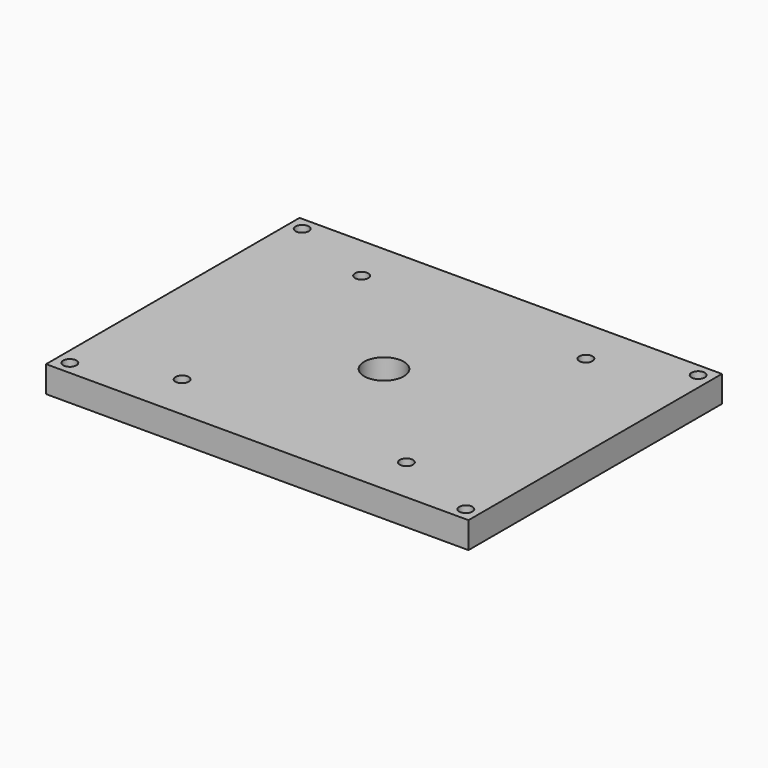
from build123d import *

# Parameters (mm, degrees)
F0_W     = 203.2
F0_H     = 152.4
F0_R     = 3.175
F0_R_2   = 9.525
F1_DEPTH = 12.7


with BuildPart() as f1:
    # F0 (on Top) → F1 (new body)
    with BuildSketch(Plane.XY):
        Rectangle(F0_W, F0_H)
        with Locations((-95.25, -69.85)):
            Circle(F0_R, mode=Mode.SUBTRACT)
        with Locations((-53.975, -53.939619)):
            Circle(F0_R, mode=Mode.SUBTRACT)
        with Locations((95.25, -69.85)):
            Circle(F0_R, mode=Mode.SUBTRACT)
        with Locations((53.975, -54.010381)):
            Circle(F0_R, mode=Mode.SUBTRACT)
        Circle(F0_R_2, mode=Mode.SUBTRACT)
        with Locations((-53.975, 54.010381)):
            Circle(F0_R, mode=Mode.SUBTRACT)
        with Locations((-95.25, 69.85)):
            Circle(F0_R, mode=Mode.SUBTRACT)
        with Locations((53.975, 53.939619)):
            Circle(F0_R, mode=Mode.SUBTRACT)
        with Locations((95.25, 69.85)):
            Circle(F0_R, mode=Mode.SUBTRACT)
    extrude(amount=F1_DEPTH)


solid = f1.part
